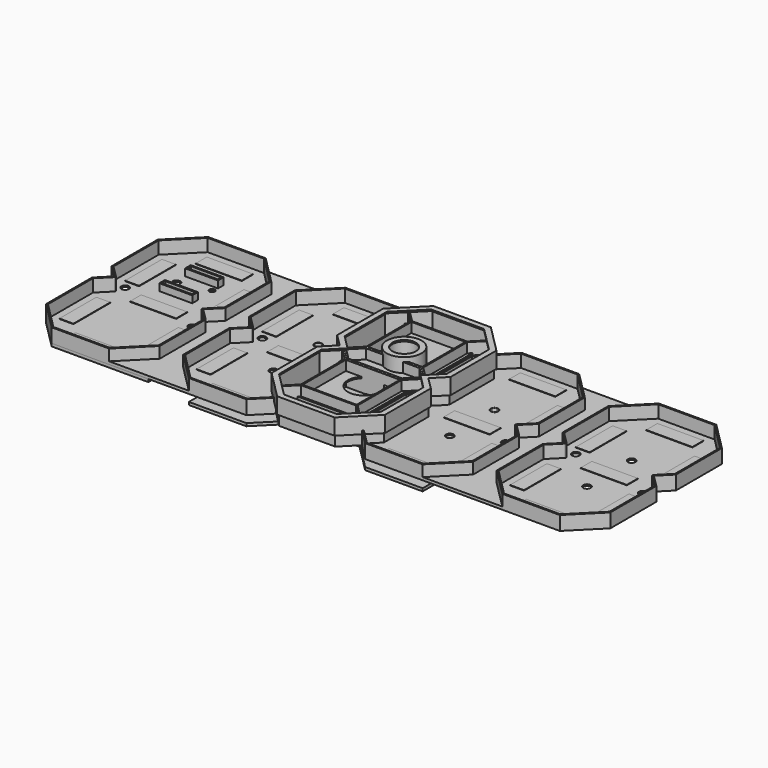
from build123d import *

# Parameters (mm, degrees)
PAD_DEPTH               = 18
BODY005_PLACEMENT_ANGLE = 90
BODY002_PLACEMENT_ANGLE = 90
BODY001_PLACEMENT_ANGLE = 90
BODY007_PLACEMENT_ANGLE = 90
PAD004_DEPTH            = 18
POCKET001_DEPTH         = 18.001
PAD006_DEPTH            = 11.5
THICKNESS001_T          = -1
POCKET002_DEPTH         = 5
BODY017_PLACEMENT_ANGLE = 180
PAD008_DEPTH            = 10
THICKNESS002_T          = -1
SKETCH012_W             = 33
SKETCH012_H             = 10
SKETCH012_W_2           = 10
SKETCH012_H_2           = 33
PAD009_DEPTH            = 0.3
SKETCH013_R             = 2.75
POCKET003_DEPTH         = 1.001
PAD010_DEPTH            = 2
PAD001_DEPTH            = 10
THICKNESS_T             = -1
SKETCH002_W             = 33
SKETCH002_H             = 10
SKETCH002_W_2           = 10
SKETCH002_H_2           = 33
PAD002_DEPTH            = 0.3
SKETCH003_R             = 2.75
SKETCH003_R_2           = 2
SKETCH003_W             = 21.5
SKETCH003_H             = 3
POCKET_DEPTH            = 1.001
SKETCH004_W             = 23.5
SKETCH004_H             = 5
SKETCH004_W_2           = 21.5
SKETCH004_H_2           = 3
PAD003_DEPTH            = 5
PAD011_DEPTH            = 10
THICKNESS003_T          = -1
SKETCH016_W             = 10
SKETCH016_H             = 16
PAD012_DEPTH            = 0.3
SKETCH017_R             = 2.75
POCKET004_DEPTH         = 5
SKETCH018_W             = 155.071642
SKETCH018_H             = 10
PAD013_DEPTH            = 2
SKETCH026_R             = 2.3
PAD018_DEPTH            = 1
PAD014_DEPTH            = 1
SKETCH020_W             = 44.8
SKETCH020_H             = 1
PAD015_DEPTH            = 10
SKETCH021_R             = 11.4
POCKET005_DEPTH         = 5
PAD019_DEPTH            = 2
SKETCH029_R             = 13.4
PAD020_DEPTH            = 6
SKETCH030_R             = 11.3
PAD021_DEPTH            = 10
SKETCH031_R             = 9.3
POCKET008_DEPTH         = 16.001
SKETCH032_R             = 12.4
PAD022_DEPTH            = 10
SKETCH033_R             = 11.4
POCKET009_DEPTH         = 9
SKETCH034_R             = 8.4
POCKET010_DEPTH         = 5
PAD023_DEPTH            = 2
PAD024_DEPTH            = 2


with BuildPart() as original_middle:
    # Sketch → Pad (new body)
    with BuildSketch(Plane.XY):
        Polygon((-30, 0), (-20, 10), (20, 10), (30, 0), (20, -10), (-20, -10), align=None)
        Polygon((-28.585786, 0), (-19.585786, 9), (19.585786, 9), (28.585786, 0), (19.585786, -9), (-19.585786, -9), align=None, mode=Mode.SUBTRACT)
    extrude(amount=PAD_DEPTH)


with BuildPart() as body006:
    # Body006 base: copy of original-middle
    add(original_middle.part)


with BuildPart() as body006_1:
    # Body006 placement: moved
    add(body006.part.moved(Location((0, -58.6, 0))))


with BuildPart() as body005:
    # Body005 base: copy of original-middle
    add(original_middle.part)


with BuildPart() as body005_1:
    # Body005 placement: moved
    add(body005.part.moved(Location((-29.3, -29.3, 0))).rotate(Axis((-29.3, -29.3, 0), (0, 0, 1)), BODY005_PLACEMENT_ANGLE))


with BuildPart() as body003:
    # Body003 base: copy of original-middle
    add(original_middle.part)


with BuildPart() as body003_1:
    # Body003 placement: moved
    add(body003.part.moved(Location((0, 58.6, 0))))


with BuildPart() as body002:
    # Body002 base: copy of original-middle
    add(original_middle.part)


with BuildPart() as body002_1:
    # Body002 placement: moved
    add(body002.part.moved(Location((29.3, 29.3, 0))).rotate(Axis((29.3, 29.3, 0), (0, 0, 1)), BODY002_PLACEMENT_ANGLE))


with BuildPart() as body001:
    # Body001 base: copy of original-middle
    add(original_middle.part)


with BuildPart() as body001_1:
    # Body001 placement: moved
    add(body001.part.moved(Location((-29.3, 29.3, 0))).rotate(Axis((-29.3, 29.3, 0), (0, 0, 1)), BODY001_PLACEMENT_ANGLE))


with BuildPart() as body007:
    # Body007 base: copy of original-middle
    add(original_middle.part)


with BuildPart() as body007_1:
    # Body007 placement: moved
    add(body007.part.moved(Location((29.3, -29.3, 0))).rotate(Axis((29.3, -29.3, 0), (0, 0, 1)), BODY007_PLACEMENT_ANGLE))


with BuildPart() as digit:
    # Fusion base: copy of original-middle
    add(original_middle.part)

    # Fusion: union Body006, Body005, Body003, Body002, Body001, Body007
    add(body006_1.part)
    add(body005_1.part)
    add(body003_1.part)
    add(body002_1.part)
    add(body001_1.part)
    add(body007_1.part)


with BuildPart() as single_segment:
    # Sketch005 → Pad004 (new body)
    with BuildSketch(Plane.XY):
        Polygon((-19.531939, 8.87), (19.531939, 8.87), (28.401939, 0), (19.531939, -8.87), (-19.531939, -8.87), (-28.401939, 0), align=None)
    extrude(amount=PAD004_DEPTH)

    # Sketch006 (on Face8 of Pad004) → Pocket001 (cut, through all)
    with BuildSketch(Plane.XY.offset(18)):
        Polygon((-19.117725, 7.87), (19.117725, 7.87), (26.987725, 0), (19.117725, -7.87), (-19.117725, -7.87), (-26.987725, 0), align=None)
    extrude(amount=-POCKET001_DEPTH, mode=Mode.SUBTRACT)


with BuildPart() as cover:
    # Sketch008 → Pad006 (new body)
    with BuildSketch(Plane.XY):
        Polygon((-20.497056, 69.8), (20.497056, 69.8), (40.5, 49.797056), (40.5, 8.802944), (31.697056, 0), (40.5, -8.802944), (40.5, -49.797056), (20.497056, -69.8), (-20.497056, -69.8), (-40.5, -49.797056), (-40.5, -8.802944), (-31.697056, 0), (-40.5, 8.802944), (-40.5, 49.797056), align=None)
    extrude(amount=PAD006_DEPTH)

    # Thickness001
    thickness001_openings = [cover.faces().sort_by_distance(p)[0] for p in [
        (0, 0, 11.5),
    ]]
    offset(amount=THICKNESS001_T, openings=thickness001_openings)

    # Sketch009 (on Face33 of Thickness001) → Pocket002 (cut)
    with BuildSketch(Plane.XY.offset(1)):
        Polygon((-18.840202, 65.8), (18.840202, 65.8), (36.5, 48.140202), (36.5, 10.459798), (26.040202, 0), (36.5, -10.459798), (36.5, -48.140202), (18.840202, -65.8), (-18.840202, -65.8), (-36.5, -48.140202), (-36.5, -10.459798), (-26.040202, 0), (-36.5, 10.459798), (-36.5, 48.140202), align=None)
    extrude(amount=-POCKET002_DEPTH, mode=Mode.SUBTRACT)


with BuildPart() as cover_1:
    # Body017 placement: moved
    add(cover.part.moved(Location((0, 0, 19))).rotate(Axis((0, 0, 19), (0, 1, 0)), BODY017_PLACEMENT_ANGLE))


with BuildPart() as back_regular:
    # Sketch011 → Pad008 (new body)
    with BuildSketch(Plane.XY):
        Polygon((-20.538478, 69.9), (20.538478, 69.9), (40.6, 49.838478), (40.6, 8.761522), (31.838478, 0), (40.6, -8.761522), (40.6, -49.838478), (20.538478, -69.9), (-20.538478, -69.9), (-40.6, -49.838478), (-40.6, -8.761522), (-31.838478, 0), (-40.6, 8.761522), (-40.6, 49.838478), align=None)
    extrude(amount=PAD008_DEPTH)

    # Thickness002
    thickness002_openings = [back_regular.faces().sort_by_distance(p)[0] for p in [
        (0, 0, 10),
    ]]
    offset(amount=THICKNESS002_T, openings=thickness002_openings)

    # Sketch012 (on Face33 of Thickness002) → Pad009 (join)
    with BuildSketch(Plane.XY.offset(1)):
        with Locations((0, 58.6)):
            Rectangle(SKETCH012_W, SKETCH012_H)
        with Locations((29.3, 29.3)):
            Rectangle(SKETCH012_W_2, SKETCH012_H_2)
        with Locations((29.3, -29.3)):
            Rectangle(SKETCH012_W_2, SKETCH012_H_2)
        with Locations((-29.3, -29.3)):
            Rectangle(SKETCH012_W_2, SKETCH012_H_2)
        with Locations((0, -58.6)):
            Rectangle(SKETCH012_W, SKETCH012_H)
        with Locations((-29.3, 29.3)):
            Rectangle(SKETCH012_W_2, SKETCH012_H_2)
        Rectangle(SKETCH012_W, SKETCH012_H)
    extrude(amount=PAD009_DEPTH)

    # Sketch013 (on Face33 of Pad009) → Pocket003 (cut, through all)
    with BuildSketch(Plane.XY.offset(1)):
        with Locations((-29.3, 6.714214)):
            Circle(SKETCH013_R)
        with Locations((29.3, -6.714214)):
            Circle(SKETCH013_R)
        with Locations((0, 20)):
            Circle(SKETCH013_R)
        with Locations((0, -20)):
            Circle(SKETCH013_R)
    extrude(amount=-POCKET003_DEPTH, mode=Mode.SUBTRACT)


with BuildPart() as body027:
    # Body027 base: copy of back-regular
    add(back_regular.part)


with BuildPart() as body027_1:
    # Body027 placement: moved
    add(body027.part.moved(Location((49, 0, 0))))


with BuildPart() as body028:
    # Sketch014 → Pad010 (new body)
    with BuildSketch(Plane.XY):
        Polygon((8.4, 49.838478), (8.4, 8.761522), (17.161522, 0), (8.4, -8.761522), (8.4, -49.838478), (28.461522, -69.9), (-28.461522, -69.9), (-8.4, -49.838478), (-8.4, -8.761522), (-17.161522, 0), (-8.4, 8.761522), (-8.4, 49.838478), (-28.461522, 69.9), (28.461522, 69.9), align=None)
    extrude(amount=PAD010_DEPTH)


with BuildPart() as panel_left:
    # Sketch001 → Pad001 (new body)
    with BuildSketch(Plane.XY):
        Polygon((-20.538478, 69.9), (20.538478, 69.9), (40.6, 49.838478), (40.6, 8.761522), (31.838478, 0), (40.6, -8.761522), (40.6, -49.838478), (20.538478, -69.9), (-20.538478, -69.9), (-40.6, -49.838478), (-40.6, -8.761522), (-31.838478, 0), (-40.6, 8.761522), (-40.6, 49.838478), align=None)
    extrude(amount=PAD001_DEPTH)

    # Thickness
    thickness_openings = [panel_left.faces().sort_by_distance(p)[0] for p in [
        (0, 0, 10),
    ]]
    offset(amount=THICKNESS_T, openings=thickness_openings)

    # Sketch002 (on Face33 of Thickness) → Pad002 (join)
    with BuildSketch(Plane.XY.offset(1)):
        with Locations((0, 58.6)):
            Rectangle(SKETCH002_W, SKETCH002_H)
        with Locations((29.3, 29.3)):
            Rectangle(SKETCH002_W_2, SKETCH002_H_2)
        with Locations((29.3, -29.3)):
            Rectangle(SKETCH002_W_2, SKETCH002_H_2)
        with Locations((-29.3, -29.3)):
            Rectangle(SKETCH002_W_2, SKETCH002_H_2)
        with Locations((0, -58.6)):
            Rectangle(SKETCH002_W, SKETCH002_H)
        with Locations((-29.3, 29.3)):
            Rectangle(SKETCH002_W_2, SKETCH002_H_2)
        Rectangle(SKETCH002_W, SKETCH002_H)
    extrude(amount=PAD002_DEPTH)

    # Sketch003 (on Face33 of Pad002) → Pocket (cut, through all)
    with BuildSketch(Plane.XY.offset(1)):
        with Locations((-29.3, 6.714214)):
            Circle(SKETCH003_R)
        with Locations((-10.75, 29.3)):
            Circle(SKETCH003_R)
        with Locations((10.75, 34.3)):
            Circle(SKETCH003_R_2)
        with Locations((29.3, -6.714214)):
            Circle(SKETCH003_R)
        with Locations((0, 40.8)):
            Rectangle(SKETCH003_W, SKETCH003_H)
        with Locations((0, 17.8)):
            Rectangle(SKETCH003_W, SKETCH003_H)
    extrude(amount=-POCKET_DEPTH, mode=Mode.SUBTRACT)

    # Sketch004 (on Face45 of Pocket) → Pad003 (join)
    with BuildSketch(Plane.XY.offset(1)):
        with Locations((0, 40.8)):
            Rectangle(SKETCH004_W, SKETCH004_H)
        with Locations((0, 40.8)):
            Rectangle(SKETCH004_W_2, SKETCH004_H_2, mode=Mode.SUBTRACT)
        with Locations((0, 17.8)):
            Rectangle(SKETCH004_W, SKETCH004_H)
        with Locations((0, 17.8)):
            Rectangle(SKETCH004_W_2, SKETCH004_H_2, mode=Mode.SUBTRACT)
    extrude(amount=PAD003_DEPTH)


with BuildPart() as panel_left_1:
    # Body026 placement: moved
    add(panel_left.part.moved(Location((-49, 0, 0))))

    # Fusion001: union Body027, Body028
    add(body027_1.part)
    add(body028.part)


with BuildPart() as panel_left_2:
    # Fusion001 placement: moved
    add(panel_left_1.part.moved(Location((-112, 0, 0))))


with BuildPart() as body030:
    # Body030 base: copy of back-regular
    add(back_regular.part)


with BuildPart() as body030_1:
    # Body030 placement: moved
    add(body030.part.moved(Location((49, 0, 0))))


with BuildPart() as body031:
    # Body031 base: copy of Body028
    add(body028.part)


with BuildPart() as panel_right:
    # Body029 base: copy of back-regular
    add(back_regular.part)


with BuildPart() as panel_right_1:
    # Body029 placement: moved
    add(panel_right.part.moved(Location((-49, 0, 0))))

    # Fusion002: union Body030, Body031
    add(body030_1.part)
    add(body031.part)


with BuildPart() as panel_right_2:
    # Fusion002 placement: moved
    add(panel_right_1.part.moved(Location((112, 0, 0))))


with BuildPart() as board:
    # Sketch015 → Pad011 (new body)
    with BuildSketch(Plane.XY):
        Polygon((-22.4, 49.838478), (22.4, 49.838478), (22.4, 8.761522), (31.161522, 0), (22.4, -8.761522), (22.4, -49.838478), (-22.4, -49.838478), (-22.4, -8.761522), (-31.161522, 0), (-22.4, 8.761522), align=None)
    extrude(amount=PAD011_DEPTH)

    # Thickness003
    thickness003_openings = [board.faces().sort_by_distance(p)[0] for p in [
        (0, 0, 10),
    ]]
    offset(amount=THICKNESS003_T, openings=thickness003_openings)

    # Sketch016 (on Face27 of Thickness003) → Pad012 (join)
    with BuildSketch(Plane.XY.offset(1)):
        with Locations((0, 18)):
            Rectangle(SKETCH016_W, SKETCH016_H)
    pad012 = extrude(amount=PAD012_DEPTH)

    # Mirrored: Pad012 across Sketch016 H_Axis
    add(pad012.mirror(Plane(origin=(0, 0, 1), x_dir=(0, 0, 1), z_dir=(0, 1, 0))))

    # Sketch017 (on Face27 of Mirrored) → Pocket004 (cut)
    with BuildSketch(Plane.XY.offset(1)):
        with Locations((-21.161522, 0)):
            Circle(SKETCH017_R)
    pocket004 = extrude(amount=-POCKET004_DEPTH, mode=Mode.SUBTRACT)

    # Mirrored001: Pocket004 across Sketch017 V_Axis
    add(pocket004.mirror(Plane(origin=(0, 0, 1), x_dir=(0, 0, 1), z_dir=(1, 0, 0))), mode=Mode.SUBTRACT)

    # Fusion003: union panel-left, panel-right
    add(panel_left_2.part)
    add(panel_right_2.part)


with BuildPart() as obj1:
    # Sketch018 → Pad013 (new body)
    with BuildSketch(Plane.XY):
        with Locations((0, 20)):
            Rectangle(SKETCH018_W, SKETCH018_H)
    extrude(amount=-PAD013_DEPTH)

    # Sketch026 (on Face5 of Pad013) → Pad018 (join)
    with BuildSketch(Plane.XY):
        with Locations((-63, 20)):
            Circle(SKETCH026_R)
    pad018 = extrude(amount=PAD018_DEPTH)

    # Mirrored003: Pad018 across Sketch026 V_Axis
    add(pad018.mirror(Plane(origin=(0, 0, 0), x_dir=(0, 0, 1), z_dir=(1, 0, 0))))


with BuildPart() as panel_center_top:
    # Sketch019 → Pad014 (new body)
    with BuildSketch(Plane.XY):
        Polygon((-22.4, 50.938478), (22.4, 50.938478), (22.4, 8.761522), (31.161522, 0), (22.4, -8.761522), (22.4, -50.938478), (-22.4, -50.938478), (-22.4, -8.761522), (-31.161522, 0), (-22.4, 8.761522), align=None)
    extrude(amount=PAD014_DEPTH)

    # Sketch020 (on Face11 of Pad014) → Pad015 (join)
    with BuildSketch(Plane(origin=(0, 0, 0), x_dir=(1, 0, 0), z_dir=(0, 0, -1))):
        with Locations((0, 50.438478)):
            Rectangle(SKETCH020_W, SKETCH020_H)
        with Locations((0, -50.438478)):
            Rectangle(SKETCH020_W, SKETCH020_H)
    extrude(amount=PAD015_DEPTH)

    # Sketch021 (on Face5 of Pad015) → Pocket005 (cut)
    with BuildSketch(Plane.XY.offset(1)):
        with Locations((0, 18)):
            Circle(SKETCH021_R)
    pocket005 = extrude(amount=-POCKET005_DEPTH, mode=Mode.SUBTRACT)

    # Mirrored002: Pocket005 across Sketch021 H_Axis
    add(pocket005.mirror(Plane(origin=(0, 0, 1), x_dir=(0, 0, 1), z_dir=(0, 1, 0))), mode=Mode.SUBTRACT)


with BuildPart() as panel_center_top_1:
    # Body034 placement: moved
    add(panel_center_top.part.moved(Location((0, 0, 10))))


with BuildPart() as border_center:
    # Sketch027 → Pad019 (new body)
    with BuildSketch(Plane.XY):
        Polygon((-42.461522, 69.9), (-22.4, 49.838478), (22.4, 49.838478), (42.461522, 69.9), (112.461522, 69.9), (112.461522, 64.9), (44.53259, 64.9), (24.471068, 44.838478), (-24.471068, 44.838478), (-44.53259, 64.9), (-112.461522, 64.9), (-112.461522, 69.9), align=None)
    extrude(amount=PAD019_DEPTH)


with BuildPart() as border_center_1:
    # Body037 placement: moved
    add(border_center.part.moved(Location((0, 0, -2))))


with BuildPart() as panel_center_tube:
    # Sketch029 → Pad020 (new body)
    with BuildSketch(Plane.XY):
        with Locations((0, 18)):
            Circle(SKETCH029_R)
    extrude(amount=PAD020_DEPTH)

    # Sketch030 (on Face3 of Pad020) → Pad021 (join)
    with BuildSketch(Plane.XY.offset(6)):
        with Locations((0, 18)):
            Circle(SKETCH030_R)
    extrude(amount=PAD021_DEPTH)

    # Sketch031 (on Face5 of Pad021) → Pocket008 (cut, through all)
    with BuildSketch(Plane.XY.offset(16)):
        with Locations((0, 18)):
            Circle(SKETCH031_R)
    extrude(amount=-POCKET008_DEPTH, mode=Mode.SUBTRACT)


with BuildPart() as panel_center_tube_1:
    # Body038 placement: moved
    add(panel_center_tube.part.moved(Location((0, 0, 4))))


with BuildPart() as panel_center_tube_cap:
    # Sketch032 → Pad022 (new body)
    with BuildSketch(Plane.XY):
        with Locations((0, 18)):
            Circle(SKETCH032_R)
    extrude(amount=PAD022_DEPTH)

    # Sketch033 (on Face2 of Pad022) → Pocket009 (cut)
    with BuildSketch(Plane(origin=(0, 0, 0), x_dir=(1, 0, 0), z_dir=(0, 0, -1))):
        with Locations((0, -18)):
            Circle(SKETCH033_R)
    extrude(amount=-POCKET009_DEPTH, mode=Mode.SUBTRACT)

    # Sketch034 (on Face5 of Pocket009) → Pocket010 (cut)
    with BuildSketch(Plane(origin=(0, 0, 9), x_dir=(1, 0, 0), z_dir=(0, 0, -1))):
        with Locations((0, -18)):
            Circle(SKETCH034_R)
    extrude(amount=-POCKET010_DEPTH, mode=Mode.SUBTRACT)


with BuildPart() as panel_center_tube_cap_1:
    # Body039 placement: moved
    add(panel_center_tube_cap.part.moved(Location((0, 0, 11))))


with BuildPart() as border_side:
    # Sketch035 → Pad023 (new body)
    with BuildSketch(Plane.XY):
        Polygon((-112.461522, 64.9), (-112.461522, 69.9), (-181.538478, 69.9), (-201.6, 49.838478), (-201.6, 8.761522), (-192.838478, 0), (-201.6, -8.761522), (-201.6, -49.838478), (-181.538478, -69.9), (-112.461522, -69.9), (-112.461522, -64.9), (-179.46741, -64.9), (-196.6, -47.76741), (-196.6, -10.83259), (-185.76741, 0), (-196.6, 10.83259), (-196.6, 47.76741), (-179.46741, 64.9), align=None)
    extrude(amount=-PAD023_DEPTH)


with BuildPart() as body041:
    # Sketch036 → Pad024 (new body)
    with BuildSketch(Plane.XY):
        Polygon((-83.538478, 69.9), (-83.538478, -69.9), (-42.461522, -69.9), (-22.4, -49.838478), (-10, -49.838478), (-10, 15), (10, 15), (10, -49.838478), (22.4, -49.838478), (42.461522, -69.9), (83.538478, -69.9), (83.538478, 69.9), (42.461522, 69.9), (22.4, 49.838478), (-22.4, 49.838478), (-42.461522, 69.9), align=None)
    extrude(amount=PAD024_DEPTH)


with BuildPart() as body041_1:
    # Body041 placement: moved
    add(body041.part.moved(Location((0, 0, -7))))


solid = Compound([digit.part, single_segment.part, cover_1.part, board.part, obj1.part, panel_center_top_1.part, border_center_1.part, panel_center_tube_1.part, panel_center_tube_cap_1.part, border_side.part, body041_1.part])
